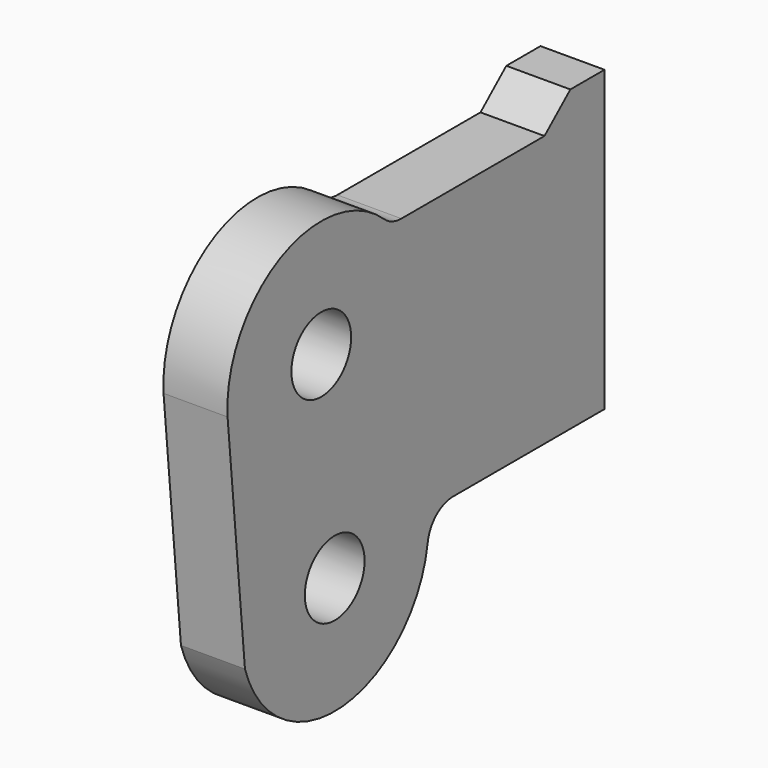
from build123d import *

# Parameters (mm, degrees)
F0_W          = 38.1
F0_H          = 355.6
F1_DEPTH      = 101.6
F1_DEPTH_BACK = 190.5
F2_R          = 22.225
F3_DEPTH      = 38.1


with BuildPart() as f1:
    # F0 (on Top) → F1 (new body, two sides)
    with BuildSketch(Plane.XY) as f1_sk:
        with Locations((0, -177.8)):
            Rectangle(F0_W, F0_H)
    extrude(amount=F1_DEPTH)
    extrude(f1_sk.sketch, amount=-F1_DEPTH_BACK)

    # F2 (on face) → F3 (cut, symmetric)
    with BuildSketch(Plane.YZ.offset(19.05)):
        with Locations((-210.687083, 25.4)):
            Circle(F2_R)
        with Locations((-200.691811, -95.822395)):
            Circle(F2_R)
        with BuildLine():
            ThreePointArc((-280.396025, 20.963117), (-241.061254, 88.300177), (-163.86631, 77.234715))
            ThreePointArc((-163.86631, 77.234715), (-157.937973, 73.59215), (-151.097008, 72.321456))
            Line((-151.097008, 72.321456), (-44.643489, 72.321456))
            Line((-44.643489, 72.321456), (-25.4, 88.9))
            Line((-25.4, 88.9), (0, 88.9))
            Line((0, 88.9), (0, 101.6))
            Line((0, 101.6), (-355.6, 101.6))
            Line((-355.6, 101.6), (-355.6, -190.5))
            Line((-355.6, -190.5), (0, -190.5))
            Line((0, -190.5), (0, -88.9))
            Line((0, -88.9), (-112.622911, -88.9))
            ThreePointArc((-112.622911, -88.9), (-125.140816, -93.590176), (-131.494818, -105.351228))
            ThreePointArc((-131.494818, -105.351228), (-195.067505, -165.445593), (-267.462, -116.334938))
            Line((-267.462, -116.334938), (-280.396025, 20.963117))
        make_face()
    extrude(amount=F3_DEPTH, both=True, mode=Mode.SUBTRACT)


solid = f1.part
